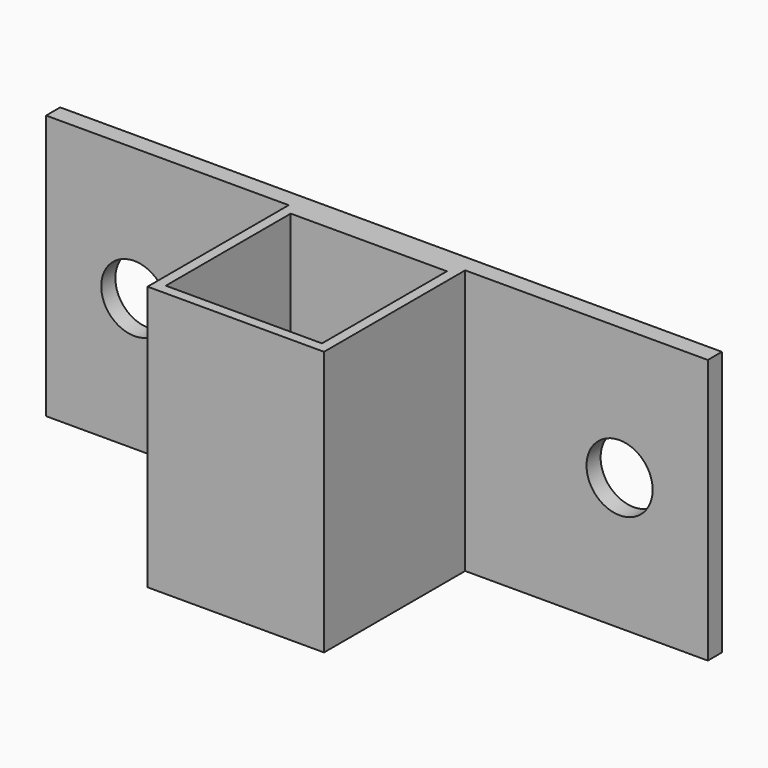
from build123d import *

# Parameters (mm, degrees)
F0_W     = 40
F0_H     = 40
F0_W_2   = 35.4
F0_H_2   = 35.4
F1_DEPTH = 60
F2_R     = 7.5
F3_DEPTH = 4.001


with BuildPart() as f1:
    # F0 (on Top) → F1 (new body)
    with BuildSketch(Plane.XY):
        Polygon((-20, 20), (20, 20), (75, 20), (75, 24), (-75, 24), (-75, 20), align=None)
        Rectangle(F0_W, F0_H)
        Rectangle(F0_W_2, F0_H_2, mode=Mode.SUBTRACT)
    extrude(amount=F1_DEPTH)

    # F2 (on face) → F3 (cut, through all)
    with BuildSketch(Plane.XZ.offset(-20)):
        with Locations((-55, 30)):
            Circle(F2_R)
        with Locations((55, 30)):
            Circle(F2_R)
    extrude(amount=-F3_DEPTH, mode=Mode.SUBTRACT)


solid = f1.part
